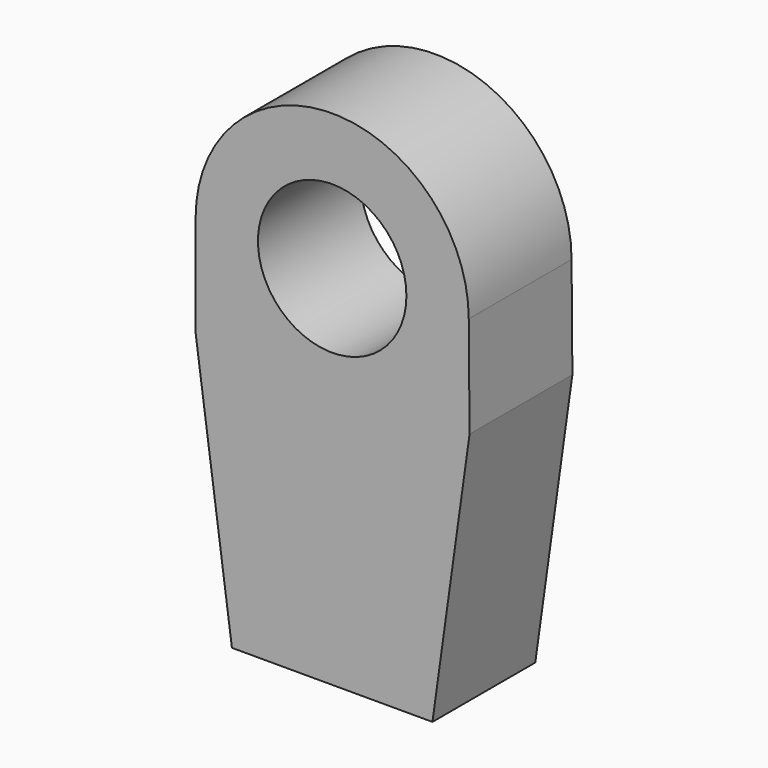
from build123d import *

# Parameters (mm, degrees)
F0_R     = 14.6685
F1_DEPTH = 25.4
F2_R     = 7.0993
F3_DEPTH = 34.29


with BuildPart() as f1:
    # F0 (on Front) → F1 (new body)
    with BuildSketch(Plane.XZ):
        with BuildLine():
            Line((-19.812, -72.4535), (0, -72.4535))
            Line((0, -72.4535), (19.812, -72.4535))
            Line((19.812, -72.4535), (27.146323, -20.0025))
            Line((27.146323, -20.0025), (26.9875, 0))
            ThreePointArc((26.9875, 0), (0, 26.9875), (-26.9875, 0))
            Line((-26.9875, 0), (-26.9875, -20.0025))
            Line((-26.9875, -20.0025), (-19.812, -72.4535))
        make_face()
        Circle(F0_R, mode=Mode.SUBTRACT)
    extrude(amount=F1_DEPTH)

    # F2 (on face) → F3 (cut)
    with BuildSketch(Plane(origin=(0, 0, -72.4535), x_dir=(1, 0, 0), z_dir=(0, 0, -1))):
        with Locations((0, 12.7)):
            Circle(F2_R)
    extrude(amount=-F3_DEPTH, mode=Mode.SUBTRACT)


solid = f1.part
